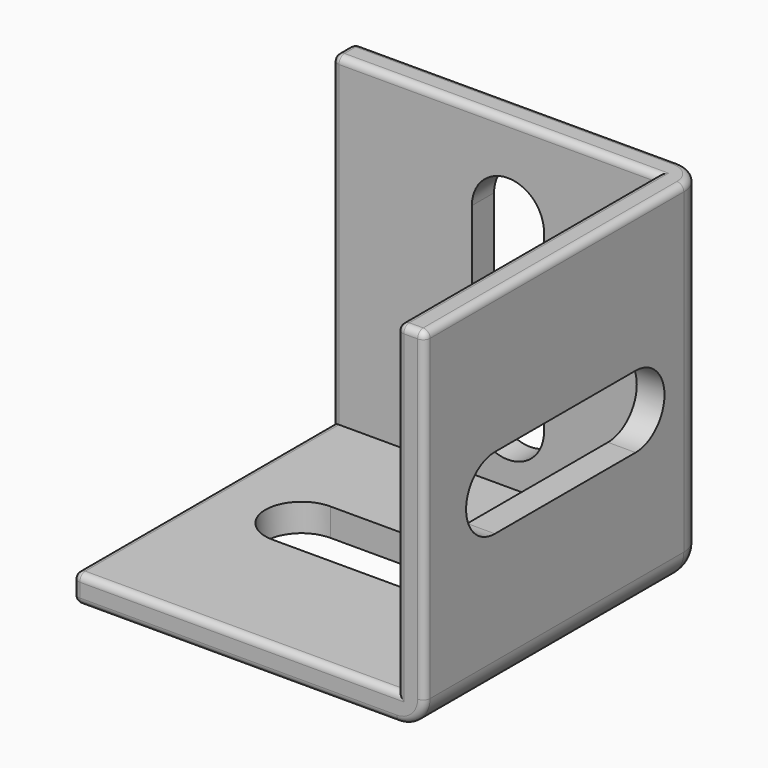
from build123d import *

# Parameters (mm, degrees)
SKETCH014_W     = 25.4
SKETCH014_H     = 25.4
PAD007_DEPTH    = 25.4
SKETCH015_W     = 23.4
SKETCH015_H     = 23.4
POCKET005_DEPTH = 23.4
POCKET006_DEPTH = 2.001
POCKET007_DEPTH = 2.001
POCKET008_DEPTH = 2.001
FILLET005_R     = 2
FILLET006_R     = 0.5


with BuildPart() as part:
    # Sketch014 → Pad007 (new body)
    with BuildSketch(Plane.XY):
        Rectangle(SKETCH014_W, SKETCH014_H)
    extrude(amount=PAD007_DEPTH)

    # Sketch015 (on Face6 of Pad007) → Pocket005 (cut)
    with BuildSketch(Plane.XY.offset(25.4)):
        with Locations((-1, -1)):
            Rectangle(SKETCH015_W, SKETCH015_H)
    extrude(amount=-POCKET005_DEPTH, mode=Mode.SUBTRACT)

    # Sketch016 (on Face7 of Pocket005) → Pocket006 (cut, through all)
    with BuildSketch(Plane.XY.offset(2)):
        with BuildLine():
            ThreePointArc((-6.35, 2.6035), (-8.9535, 0), (-6.35, -2.6035))
            Line((-6.35, -2.6035), (6.35, -2.6035))
            ThreePointArc((6.35, -2.6035), (8.9535, 0), (6.35, 2.6035))
            Line((6.35, 2.6035), (-6.35, 2.6035))
        make_face()
    extrude(amount=-POCKET006_DEPTH, mode=Mode.SUBTRACT)

    # Sketch017 (on Face6 of Pocket006) → Pocket007 (cut, through all)
    with BuildSketch(Plane(origin=(10.7, 0, 0), x_dir=(0, -1, 0), z_dir=(-1, 0, 0))):
        with BuildLine():
            ThreePointArc((-6.35, 15.3035), (-8.9535, 12.7), (-6.35, 10.0965))
            Line((-6.35, 10.0965), (6.35, 10.0965))
            ThreePointArc((6.35, 10.0965), (8.9535, 12.7), (6.35, 15.3035))
            Line((6.35, 15.3035), (-6.35, 15.3035))
        make_face()
    extrude(amount=-POCKET007_DEPTH, mode=Mode.SUBTRACT)

    # Sketch018 (on Face17 of Pocket007) → Pocket008 (cut, through all)
    with BuildSketch(Plane.XZ.offset(-10.7)):
        with BuildLine():
            ThreePointArc((2.6035, 19.05), (0, 21.6535), (-2.6035, 19.05))
            Line((-2.6035, 19.05), (-2.6035, 6.35))
            ThreePointArc((-2.6035, 6.35), (0, 3.7465), (2.6035, 6.35))
            Line((2.6035, 6.35), (2.6035, 19.05))
        make_face()
    extrude(amount=-POCKET008_DEPTH, mode=Mode.SUBTRACT)

    # Fillet005
    fillet005_edges = [part.edges().sort_by_distance(p)[0] for p in [
        (12.7, 12.7, 12.7),
        (0, 12.7, 0),
        (12.7, 0, 0),
    ]]
    fillet(fillet005_edges, radius=FILLET005_R)

    # Fillet006
    fillet006_edges = [part.edges().sort_by_distance(p)[0] for p in [
        (-1, -12.7, 0),
        (12.114214, -12.7, 0.585786),
        (-12.7, -12.7, 1),
        (12.7, -12.7, 13.7),
        (-1, -12.7, 2),
        (11.7, -12.7, 25.4),
        (10.7, -12.7, 13.7),
        (-1, 12.7, 25.4),
        (12.114214, 12.114214, 25.4),
        (-12.7, 11.7, 25.4),
        (12.7, -1, 25.4),
        (-1, 10.7, 25.4),
        (10.7, -1, 25.4),
        (-12.7, -1, 0),
        (-12.7, 12.114214, 0.585786),
        (-12.7, 12.7, 13.7),
        (-12.7, -1, 2),
        (-12.7, 10.7, 13.7),
    ]]
    fillet(fillet006_edges, radius=FILLET006_R)


solid = part.part
